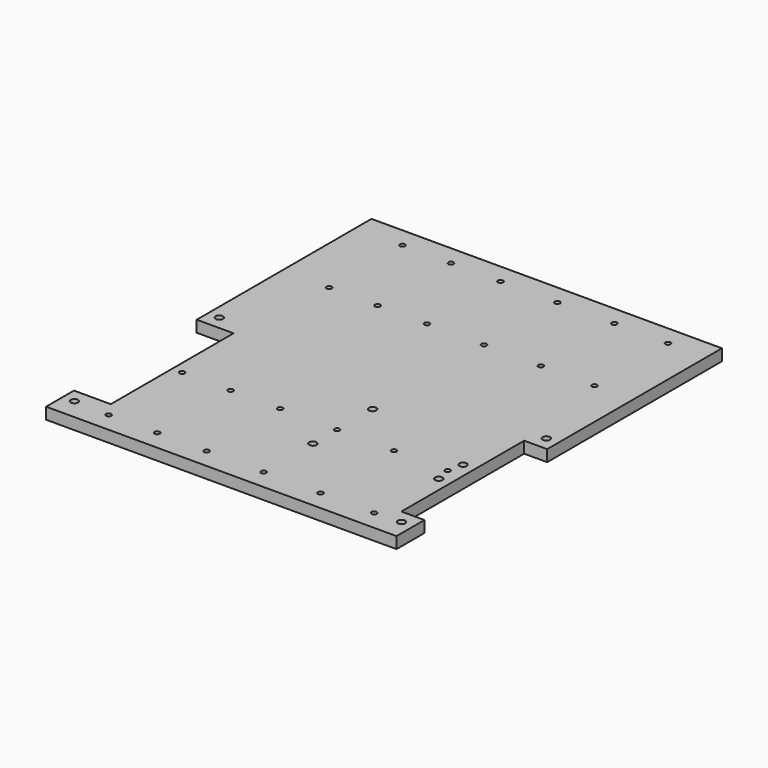
from build123d import *

# Parameters (mm, degrees)
SKETCH_R             = 1.6
PAD_DEPTH            = 5
PAD_FACE8_W          = 152.4
PAD_FACE8_H          = 5
PAD001_DEPTH         = 80
SKETCH001_W          = 12
SKETCH001_H          = 156.9
POCKET_DEPTH         = 2.5
SKETCH002_W          = 12
SKETCH002_H          = 156.9
POCKET001_DEPTH      = 2.5
SKETCH003_W          = 12
SKETCH003_H          = 156.9
POCKET002_DEPTH      = 2.5
SKETCH004_W          = 12
SKETCH004_H          = 156.9
POCKET003_DEPTH      = 2.5
SKETCH005_W          = 12
SKETCH005_H          = 156.9
POCKET004_DEPTH      = 2.5
SKETCH006_R          = 1.1303
POCKET005_DEPTH      = 5.001
POCKET005_DEPTH_BACK = 0.001


with BuildPart() as part:
    # Sketch (on Face12378 of Binder) → Pad (new body)
    with BuildSketch(Plane(origin=(0, 0, 0), x_dir=(1, 0, 0), z_dir=(0, 0, -1))):
        Polygon((76.275, 138.125), (228.675, 138.125), (228.675, 122.9688), (218.675, 122.9688), (218.675, 56.2288), (228.675, 56.2288), (228.675, 41.225), (76.275, 41.225), (76.275, 56.2288), (92.275, 56.2288), (92.275, 122.9688), (76.275, 122.9688), align=None)
        with Locations((81.2788, 128.9688)):
            Circle(SKETCH_R, mode=Mode.SUBTRACT)
        with Locations((223.5188, 128.9688)):
            Circle(SKETCH_R, mode=Mode.SUBTRACT)
        with Locations((223.5188, 50.2288)):
            Circle(SKETCH_R, mode=Mode.SUBTRACT)
        with Locations((81.2788, 50.2288)):
            Circle(SKETCH_R, mode=Mode.SUBTRACT)
        with Locations((164, 102.75)):
            Circle(SKETCH_R, mode=Mode.SUBTRACT)
        with Locations((164, 70.25)):
            Circle(SKETCH_R, mode=Mode.SUBTRACT)
        with Locations((213.5, 83)):
            Circle(SKETCH_R, mode=Mode.SUBTRACT)
        with Locations((213.5188, 96.2288)):
            Circle(SKETCH_R, mode=Mode.SUBTRACT)
    extrude(amount=PAD_DEPTH)

    # Pad Face8 → Pad001 (add)
    with BuildSketch(Plane(origin=(152.475, -41.225, -2.5), x_dir=(1, 0, 0), z_dir=(0, 1, 0))):
        Rectangle(PAD_FACE8_W, PAD_FACE8_H)
    extrude(amount=PAD001_DEPTH)

    # Sketch001 (on Face23 of Pad001) → Pocket (cut)
    with BuildSketch(Plane(origin=(0, 0, -5), x_dir=(1, 0, 0), z_dir=(0, 0, -1))):
        with Locations((199.5188, 49.675)):
            Rectangle(SKETCH001_W, SKETCH001_H)
    extrude(amount=-POCKET_DEPTH, mode=Mode.SUBTRACT)

    # Sketch002 (on Face23 of Pocket) → Pocket001 (cut)
    with BuildSketch(Plane(origin=(0, 0, -5), x_dir=(1, 0, 0), z_dir=(0, 0, -1))):
        with Locations((178, 49.675)):
            Rectangle(SKETCH002_W, SKETCH002_H)
    extrude(amount=-POCKET001_DEPTH, mode=Mode.SUBTRACT)

    # Sketch003 (on Face5 of Pocket001) → Pocket002 (cut)
    with BuildSketch(Plane(origin=(0, 0, -5), x_dir=(1, 0, 0), z_dir=(0, 0, -1))):
        with Locations((150, 49.675)):
            Rectangle(SKETCH003_W, SKETCH003_H)
    extrude(amount=-POCKET002_DEPTH, mode=Mode.SUBTRACT)

    # Sketch004 (on Face5 of Pocket002) → Pocket003 (cut)
    with BuildSketch(Plane(origin=(0, 0, -5), x_dir=(1, 0, 0), z_dir=(0, 0, -1))):
        with Locations((128.4812, 49.675)):
            Rectangle(SKETCH004_W, SKETCH004_H)
    extrude(amount=-POCKET003_DEPTH, mode=Mode.SUBTRACT)

    # Sketch005 (on Face5 of Pocket003) → Pocket004 (cut)
    with BuildSketch(Plane(origin=(0, 0, -5), x_dir=(1, 0, 0), z_dir=(0, 0, -1))):
        with Locations((106.9624, 49.675)):
            Rectangle(SKETCH005_W, SKETCH005_H)
    extrude(amount=-POCKET004_DEPTH, mode=Mode.SUBTRACT)

    # Sketch006 (on Face5 of Pocket004) → Pocket005 (cut, two sides)
    with BuildSketch(Plane(origin=(0, 0, -5), x_dir=(1, 0, 0), z_dir=(0, 0, -1))) as pocket005_sk:
        with Locations((212.0969, 129.5538)):
            Circle(SKETCH006_R)
        with Locations((212.0969, 89.6144)):
            Circle(SKETCH006_R)
        with Locations((212.0969, 89.6144)):
            Circle(SKETCH006_R)
        with Locations((212.0969, 9.7356)):
            Circle(SKETCH006_R)
        with Locations((212.0969, -30.2038)):
            Circle(SKETCH006_R)
        with Locations((164, 89.6144)):
            Circle(SKETCH006_R)
        with Locations((188.7594, 89.6144)):
            Circle(SKETCH006_R)
        with Locations((139.2406, 89.6144)):
            Circle(SKETCH006_R)
        with Locations((117.7218, 89.6144)):
            Circle(SKETCH006_R)
        with Locations((96.6187, 89.6144)):
            Circle(SKETCH006_R)
        with Locations((96.6187, 129.5538)):
            Circle(SKETCH006_R)
        with Locations((117.7218, 129.5538)):
            Circle(SKETCH006_R)
        with Locations((139.2406, 129.5538)):
            Circle(SKETCH006_R)
        with Locations((164, 129.5538)):
            Circle(SKETCH006_R)
        with Locations((188.7594, 129.5538)):
            Circle(SKETCH006_R)
        with Locations((96.6187, 89.6144)):
            Circle(SKETCH006_R)
        with Locations((117.7218, 89.6144)):
            Circle(SKETCH006_R)
        with Locations((139.2406, 89.6144)):
            Circle(SKETCH006_R)
        with Locations((164, 89.6144)):
            Circle(SKETCH006_R)
        with Locations((188.7594, 89.6144)):
            Circle(SKETCH006_R)
        with Locations((164, 9.7356)):
            Circle(SKETCH006_R)
        with Locations((139.2406, 9.7356)):
            Circle(SKETCH006_R)
        with Locations((117.7218, 9.7356)):
            Circle(SKETCH006_R)
        with Locations((96.6187, 9.7356)):
            Circle(SKETCH006_R)
        with Locations((96.6187, -30.2038)):
            Circle(SKETCH006_R)
        with Locations((117.7218, -30.2038)):
            Circle(SKETCH006_R)
        with Locations((139.2406, -30.2038)):
            Circle(SKETCH006_R)
        with Locations((164, -30.2038)):
            Circle(SKETCH006_R)
        with Locations((188.7594, -30.2038)):
            Circle(SKETCH006_R)
        with Locations((188.7594, 9.7356)):
            Circle(SKETCH006_R)
    extrude(amount=-POCKET005_DEPTH, mode=Mode.SUBTRACT)
    extrude(pocket005_sk.sketch, amount=POCKET005_DEPTH_BACK, mode=Mode.SUBTRACT)


solid = part.part
